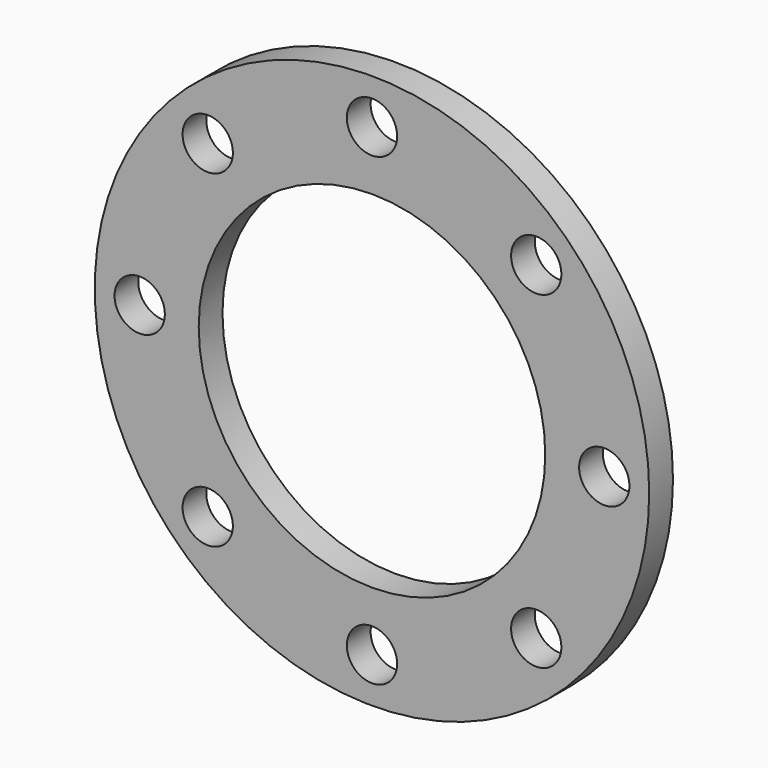
from build123d import *

# Parameters (mm, degrees)
F0_R     = 140
F0_R_2   = 12.7
F0_R_3   = 87.5
F1_DEPTH = 15


with BuildPart() as f1:
    # F0 (on Front) → F1 (new body)
    with BuildSketch(Plane.XZ):
        Circle(F0_R)
        with Locations((-82.943625, -82.943625)):
            Circle(F0_R_2, mode=Mode.SUBTRACT)
        with Locations((0, -117.3)):
            Circle(F0_R_2, mode=Mode.SUBTRACT)
        with Locations((82.943625, -82.943625)):
            Circle(F0_R_2, mode=Mode.SUBTRACT)
        with Locations((-117.3, 0)):
            Circle(F0_R_2, mode=Mode.SUBTRACT)
        with Locations((-82.943625, 82.943625)):
            Circle(F0_R_2, mode=Mode.SUBTRACT)
        Circle(F0_R_3, mode=Mode.SUBTRACT)
        with Locations((117.3, 0)):
            Circle(F0_R_2, mode=Mode.SUBTRACT)
        with Locations((0, 117.3)):
            Circle(F0_R_2, mode=Mode.SUBTRACT)
        with Locations((82.943625, 82.943625)):
            Circle(F0_R_2, mode=Mode.SUBTRACT)
    extrude(amount=F1_DEPTH)


solid = f1.part
